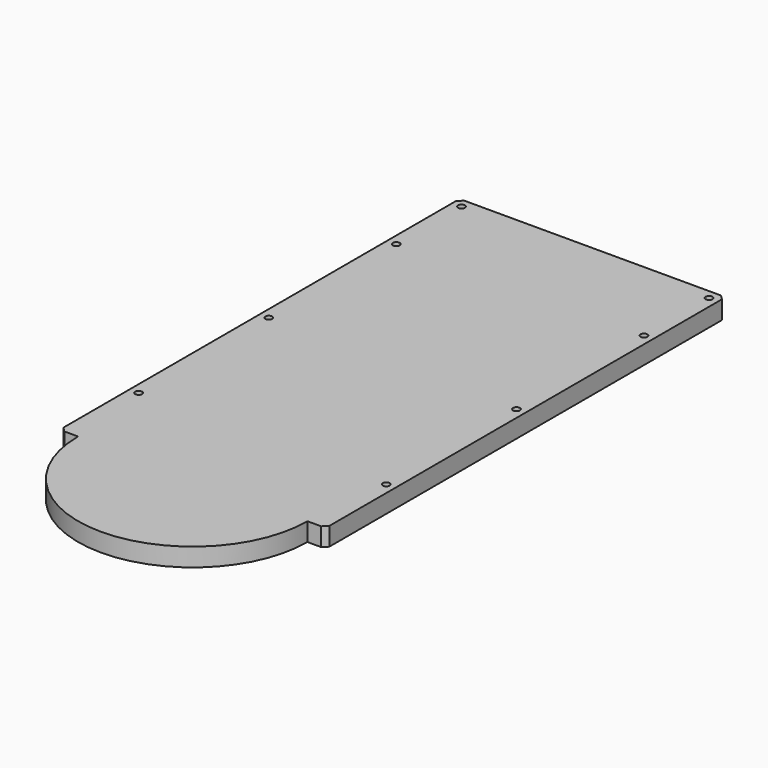
from build123d import *

# Parameters (mm, degrees)
F0_R     = 3.75
F1_DEPTH = 20
F2_SIZE  = 5


with BuildPart() as f1:
    # F0 (on Top) → F1 (new body)
    with BuildSketch(Plane.XY):
        with BuildLine():
            Line((75.2290930078, -224.4396618605), (95.2290930078, -224.4396618605))
            Line((95.2290930078, -224.4396618605), (95.2290930078, 320.5603381395))
            Line((95.2290930078, 320.5603381395), (-174.7709069922, 320.5603381395))
            Line((-174.7709069922, 320.5603381395), (-174.7709069922, 300.5603381395))
            Line((-174.7709069922, 300.5603381395), (-194.7709069922, 300.5603381395))
            Line((-194.7709069922, 300.5603381395), (-194.7709069922, -224.4396618605))
            Line((-194.7709069922, -224.4396618605), (-174.7709069922, -224.4396618605))
            ThreePointArc((-174.7709069922, -224.4396618605), (-138.1592546406, -312.8280095088), (-49.7709069922, -349.4396618605))
            ThreePointArc((-49.7709069922, -349.4396618605), (38.6174406561, -312.8280095088), (75.2290930078, -224.4396618605))
        make_face()
        with Locations((-184.7709069922, -129.4396618605)):
            Circle(F0_R, mode=Mode.SUBTRACT)
        with Locations((85.2290930078, -129.4396618605)):
            Circle(F0_R, mode=Mode.SUBTRACT)
        with Locations((-184.7709069922, 48.0603381395)):
            Circle(F0_R, mode=Mode.SUBTRACT)
        with Locations((-184.7709069922, 221.8103381395)):
            Circle(F0_R, mode=Mode.SUBTRACT)
        with Locations((85.2290930078, 48.0603381395)):
            Circle(F0_R, mode=Mode.SUBTRACT)
        with Locations((85.2290930078, 221.8103381395)):
            Circle(F0_R, mode=Mode.SUBTRACT)
        with Locations((85.2290930078, 310.5603381395)):
            Circle(F0_R, mode=Mode.SUBTRACT)
        with BuildLine():
            Line((-182.1192565628, 313.211988569), (-174.7709069922, 320.5603381395))
            Line((-174.7709069922, 320.5603381395), (-194.7709069922, 320.5603381395))
            Line((-194.7709069922, 320.5603381395), (-187.4225574217, 313.211988569))
            ThreePointArc((-187.4225574217, 313.211988569), (-184.7709069922, 314.3103381395), (-182.1192565628, 313.211988569))
        make_face()
        with BuildLine():
            Line((-174.7709069922, 300.5603381395), (-174.7709069922, 320.5603381395))
            Line((-174.7709069922, 320.5603381395), (-182.1192565628, 313.211988569))
            ThreePointArc((-182.1192565628, 313.211988569), (-181.3063587453, 311.9954010109), (-181.0209069922, 310.5603381395))
            ThreePointArc((-181.0209069922, 310.5603381395), (-181.3063587453, 309.1252752682), (-182.1192565628, 307.9086877101))
            Line((-182.1192565628, 307.9086877101), (-174.7709069922, 300.5603381395))
        make_face()
        with BuildLine():
            Line((-187.4225574217, 313.211988569), (-194.7709069922, 320.5603381395))
            Line((-194.7709069922, 320.5603381395), (-194.7709069922, 300.5603381395))
            Line((-194.7709069922, 300.5603381395), (-187.4225574217, 307.9086877101))
            ThreePointArc((-187.4225574217, 307.9086877101), (-188.5209069922, 310.5603381395), (-187.4225574217, 313.211988569))
        make_face()
        with BuildLine():
            Line((-194.7709069922, 300.5603381395), (-174.7709069922, 300.5603381395))
            Line((-174.7709069922, 300.5603381395), (-182.1192565628, 307.9086877101))
            ThreePointArc((-182.1192565628, 307.9086877101), (-184.7709069922, 306.8103381395), (-187.4225574217, 307.9086877101))
            Line((-187.4225574217, 307.9086877101), (-194.7709069922, 300.5603381395))
        make_face()
    extrude(amount=F1_DEPTH)

    # F2
    f2_edges = [f1.edges().sort_by_distance(p)[0] for p in [
        (95.229093, -224.439662, 10),
        (-194.770907, -224.439662, 10),
        (95.229093, 320.560338, 10),
        (-194.770907, 320.560338, 10),
    ]]
    chamfer(f2_edges, length=F2_SIZE)


solid = f1.part
